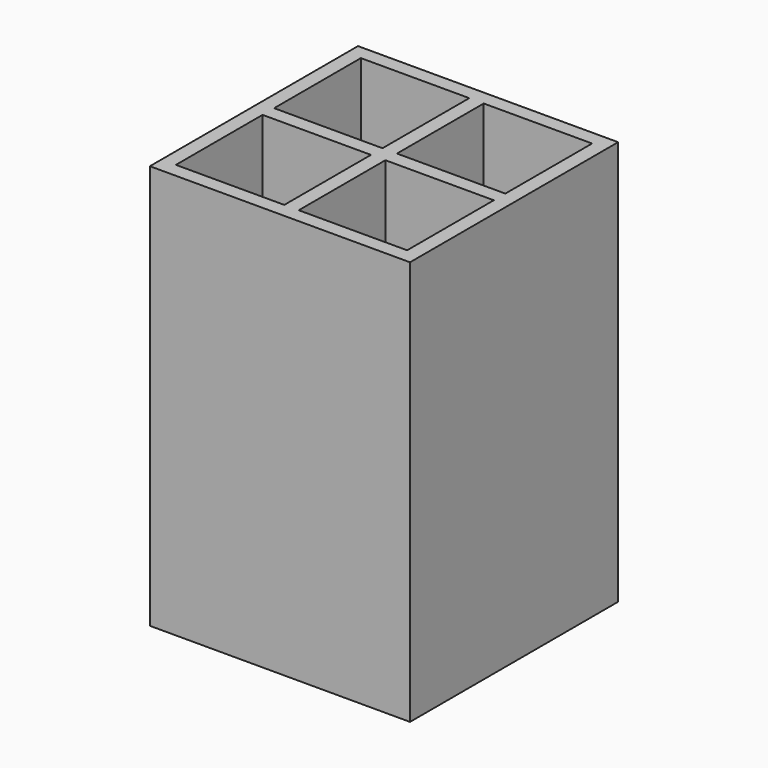
from build123d import *

# Parameters (mm, degrees)
F0_W     = 57.15
F0_H     = 88.9
F1_DEPTH = 57.15
F2_W     = 23.8125
F2_H     = 23.8252
F2_H_2   = 23.7998
F3_DEPTH = 85.725


with BuildPart() as f1:
    # F0 (on Front) → F1 (new body)
    with BuildSketch(Plane.XZ):
        Rectangle(F0_W, F0_H)
    extrude(amount=F1_DEPTH)

    # F2 (on face) → F3 (cut)
    with BuildSketch(Plane.XY.offset(44.45)):
        with Locations((-13.49375, -15.0876)):
            Rectangle(F2_W, F2_H)
        with Locations((13.49375, -15.0876)):
            Rectangle(F2_W, F2_H)
        with Locations((13.49375, -42.0751)):
            Rectangle(F2_W, F2_H_2)
        with Locations((-13.49375, -42.0751)):
            Rectangle(F2_W, F2_H_2)
    extrude(amount=-F3_DEPTH, mode=Mode.SUBTRACT)


solid = f1.part
